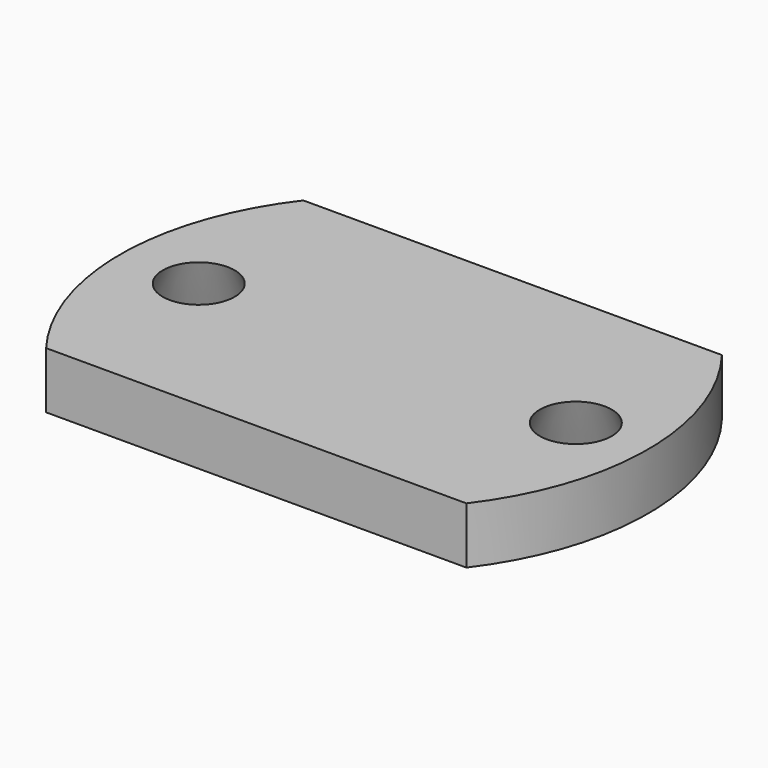
from build123d import *

# Parameters (mm, degrees)
F1_DEPTH       = 3
F3_D           = 3.4
F3_CSINK_D     = 6.3
F3_CSINK_ANGLE = 45


with BuildPart() as f1:
    # F0 (on Top) → F1 (new body)
    with BuildSketch(Plane.XY):
        with BuildLine():
            Line((11.10173, 8.529454), (-11.10173, 8.529454))
            ThreePointArc((-11.10173, 8.529454), (-13.999951, 0.037106), (-11.146787, -8.470486))
            Line((-11.146787, -8.470486), (11.146787, -8.470486))
            ThreePointArc((11.146787, -8.470486), (13.999951, 0.037106), (11.10173, 8.529454))
        make_face()
    extrude(amount=F1_DEPTH)

    # F3 (through all)
    with Locations(Plane(origin=(0, 0, 0), x_dir=(1, 0, 0), z_dir=(0, 0, -1))):
        with Locations((-9.826185, 0), (10.173815, 0)):
            CounterSinkHole(F3_D / 2, F3_CSINK_D / 2, counter_sink_angle=F3_CSINK_ANGLE)


solid = f1.part
